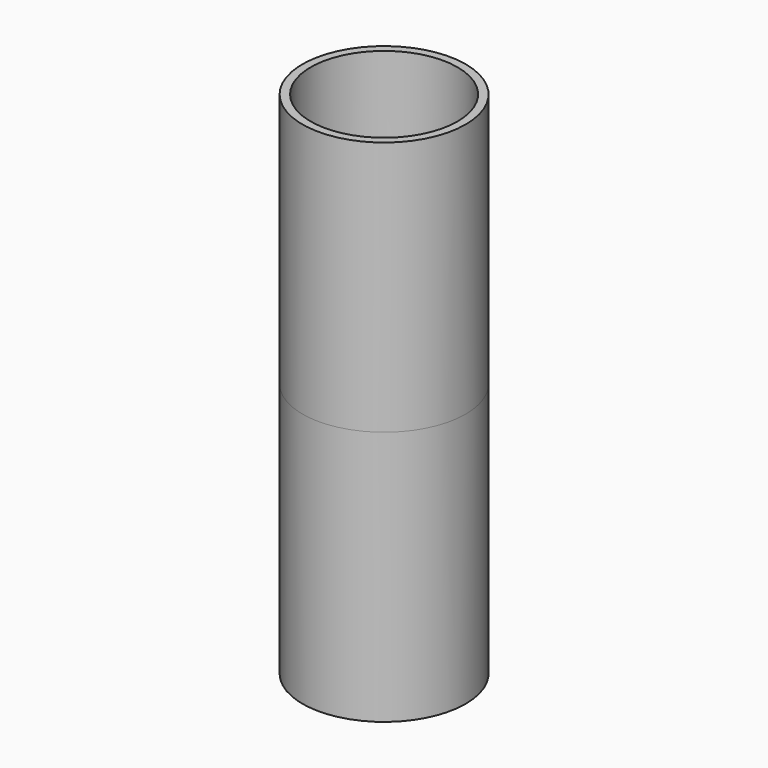
from build123d import *

# Parameters (mm, degrees)
F0_R          = 40
F0_R_2        = 36
F1_DEPTH      = 125
F1_DEPTH_BACK = 125


with BuildPart() as f1:
    # F0 (on Top) → F1 (new body, two sides)
    with BuildSketch(Plane.XY) as f1_sk:
        Circle(F0_R)
        Circle(F0_R_2, mode=Mode.SUBTRACT)
    extrude(amount=-F1_DEPTH)
    extrude(f1_sk.sketch, amount=F1_DEPTH_BACK)


solid = f1.part
